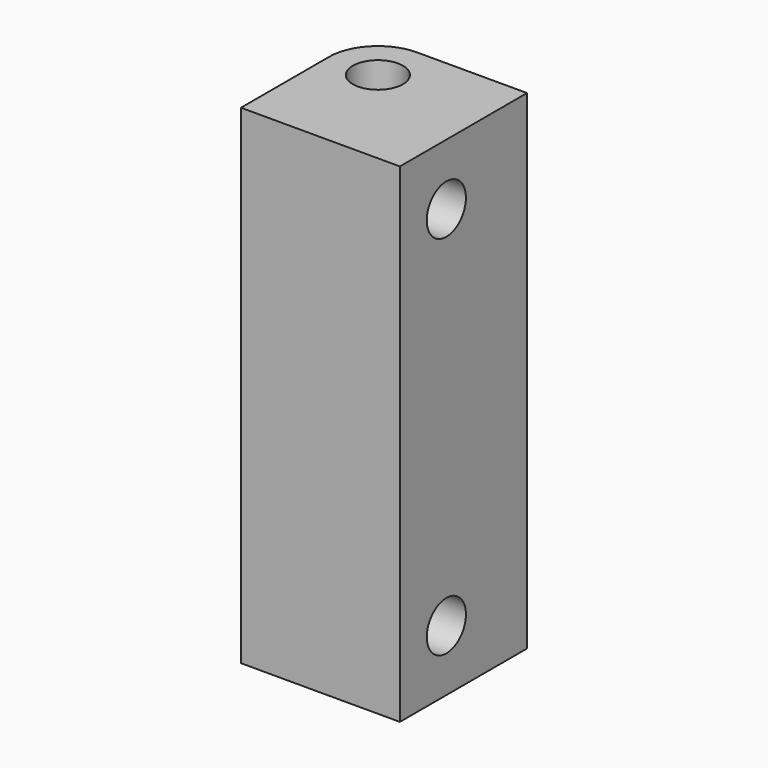
from build123d import *

# Parameters (mm, degrees)
SKETCH001_R  = 4
PAD004_DEPTH = 31
PAD006_DEPTH = 4
SKETCH_R     = 4.1
PAD_DEPTH    = 80


with BuildPart() as rodhole02:
    # Sketch001 → Pad004 (new body)
    with BuildSketch(Plane.YZ.offset(15.5)):
        with Locations((-3.5, 70)):
            Circle(SKETCH001_R)
        with Locations((-3.5, 10)):
            Circle(SKETCH001_R)
    extrude(amount=-PAD004_DEPTH)


with BuildPart() as cutblock:
    # Sketch002 → Pad006 (new body)
    with BuildSketch(Plane.YZ.offset(-10)):
        Polygon((2.908588, 66.3), (2.908588, 73.7), (-3.5, 77.4), (-9.908588, 73.7), (-9.908588, 66.3), (-3.5, 62.6), align=None)
        Polygon((-3.5, 2.6), (2.908588, 6.3), (2.908588, 13.7), (-3.5, 17.4), (-9.908588, 13.7), (-9.908588, 6.3), align=None)
    extrude(amount=-PAD006_DEPTH)

    # Fusion: union RodHole02
    add(rodhole02.part)


with BuildPart() as cut:
    # Sketch → Pad (new body)
    with BuildSketch(Plane.XY):
        with BuildLine():
            Line((-13.000011, 5.000021), (-13.000011, -13))
            Line((-13.000011, -13), (13.000011, -13))
            Line((13.000011, -13), (13.000011, 13))
            Line((13.000011, 13), (-5.00001, 13))
            ThreePointArc((-5.00001, 13), (-10.656858, 10.656862), (-13.000011, 5.000021))
        make_face()
        with Locations((-5.000011, 5)):
            Circle(SKETCH_R, mode=Mode.SUBTRACT)
    extrude(amount=PAD_DEPTH)

    # Cut: cut CutBlock
    add(cutblock.part, mode=Mode.SUBTRACT)


solid = cut.part
